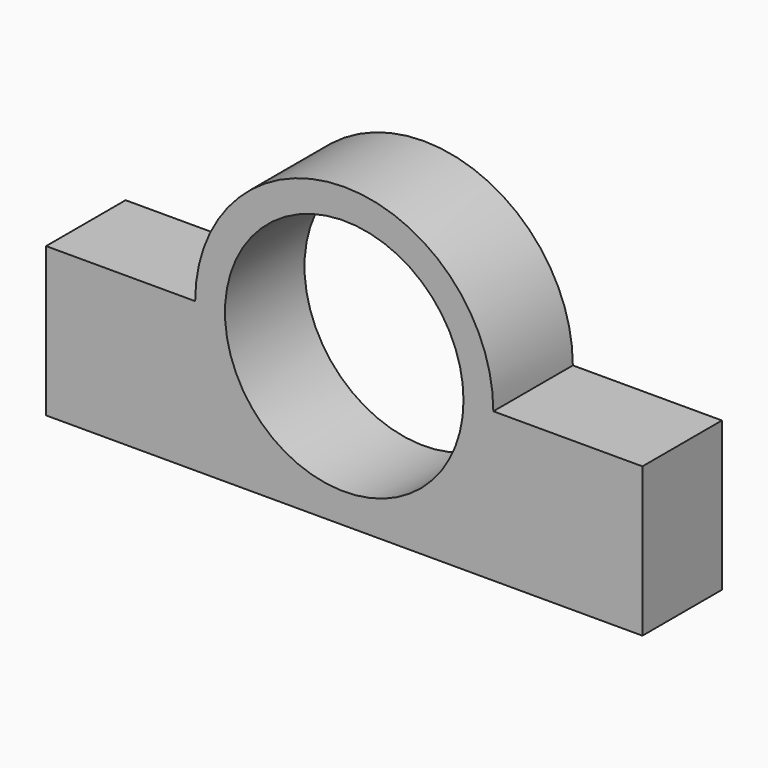
from build123d import *

# Parameters (mm, degrees)
F0_R     = 30.48
F1_DEPTH = 25.4


with BuildPart() as f1:
    # F0 (on Front) → F1 (new body)
    with BuildSketch(Plane.XZ):
        with BuildLine():
            Line((76.2, 0), (38.1, 0))
            ThreePointArc((38.1, 0), (0, 38.1), (-38.1, 0))
            Line((-38.1, 0), (-76.2, 0))
            Line((-76.2, 0), (-76.2, -38.1))
            Line((-76.2, -38.1), (76.2, -38.1))
            Line((76.2, -38.1), (76.2, 0))
        make_face()
        Circle(F0_R, mode=Mode.SUBTRACT)
    extrude(amount=F1_DEPTH)


solid = f1.part
